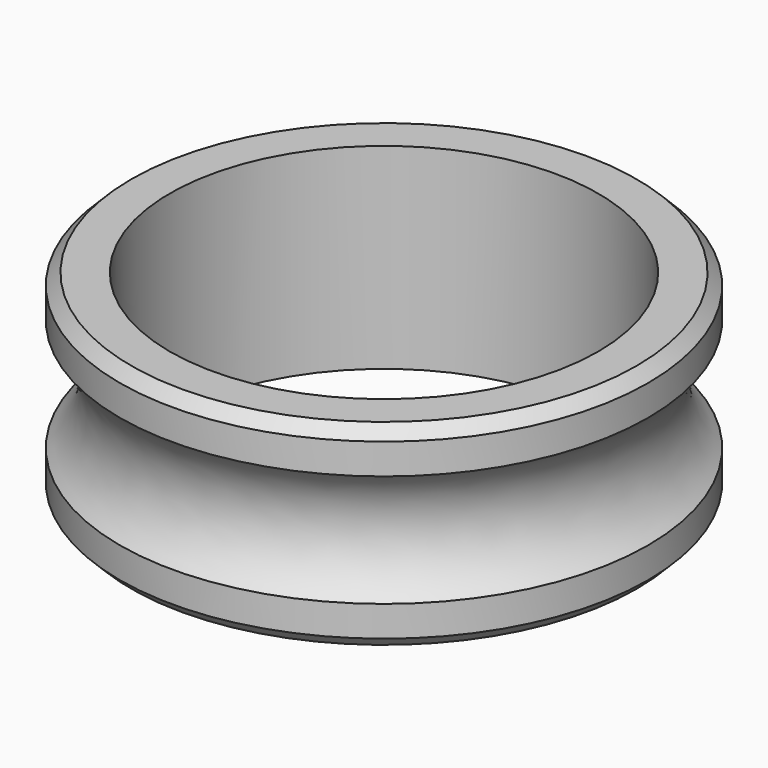
from build123d import *

# Parameters (mm, degrees)
F3_SIZE = 2.032


with BuildPart() as f2:
    # F0 (on Front) → F2 (revolve)
    with BuildSketch(Plane.XZ):
        with BuildLine():
            Line((46.99, 17.4625), (38.1, 17.4625))
            Line((38.1, 17.4625), (38.1, -17.4625))
            Line((38.1, -17.4625), (46.99, -17.4625))
            Line((46.99, -17.4625), (46.99, -9.98304))
            ThreePointArc((46.99, -9.98304), (42.291, 0), (46.99, 9.98304))
            Line((46.99, 9.98304), (46.99, 17.4625))
        make_face()
    revolve(axis=Axis((0, 0, 0.613732), (0, 0, -1)))

    # F3
    f3_edges = [f2.edges().sort_by_distance(p)[0] for p in [
        (-46.99, 0, 17.4625),
        (-46.99, 0, -17.4625),
    ]]
    chamfer(f3_edges, length=F3_SIZE)


solid = f2.part
